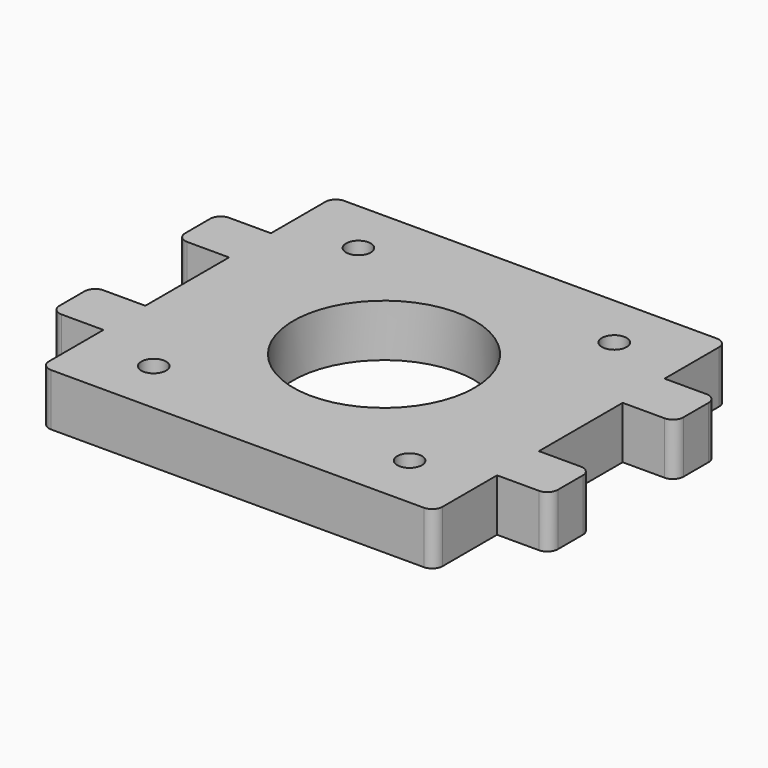
from build123d import *

# Parameters (mm, degrees)
F0_R     = 1.49987
F0_R_2   = 11
F0_W     = 6.35
F0_H     = 6.35
F1_DEPTH = 6.35
F2_R     = 1.27


with BuildPart() as f1:
    # F0 (on Top) → F1 (new body)
    with BuildSketch(Plane.XY):
        Polygon((23.876, 22.225), (-23.876, 22.225), (-23.876, 12.7), (-23.876, 6.35), (-23.876, -6.35), (-23.876, -12.7), (-23.876, -22.225), (23.876, -22.225), (23.876, -12.7), (23.876, -6.35), (23.876, 6.35), (23.876, 12.7), align=None)
        with Locations((-15.52, -15.52)):
            Circle(F0_R, mode=Mode.SUBTRACT)
        with Locations((15.52, -15.52)):
            Circle(F0_R, mode=Mode.SUBTRACT)
        with Locations((-15.52, 15.52)):
            Circle(F0_R, mode=Mode.SUBTRACT)
        Circle(F0_R_2, mode=Mode.SUBTRACT)
        with Locations((15.52, 15.52)):
            Circle(F0_R, mode=Mode.SUBTRACT)
        with Locations((-27.051, 9.525)):
            Rectangle(F0_W, F0_H)
        with Locations((27.051, 9.525)):
            Rectangle(F0_W, F0_H)
        with Locations((-27.051, -9.525)):
            Rectangle(F0_W, F0_H)
        with Locations((27.051, -9.525)):
            Rectangle(F0_W, F0_H)
    extrude(amount=F1_DEPTH)

    # F2
    f2_edges = [f1.edges().sort_by_distance(p)[0] for p in [
        (-23.876, -22.225, 3.175),
        (23.876, -22.225, 3.175),
        (23.876, 22.225, 3.175),
        (-23.876, 22.225, 3.175),
        (30.226, -12.7, 3.175),
        (30.226, -6.35, 3.175),
        (30.226, 6.35, 3.175),
        (30.226, 12.7, 3.175),
        (-30.226, 12.7, 3.175),
        (-30.226, 6.35, 3.175),
        (-30.226, -6.35, 3.175),
        (-30.226, -12.7, 3.175),
    ]]
    fillet(f2_edges, radius=F2_R)


solid = f1.part
